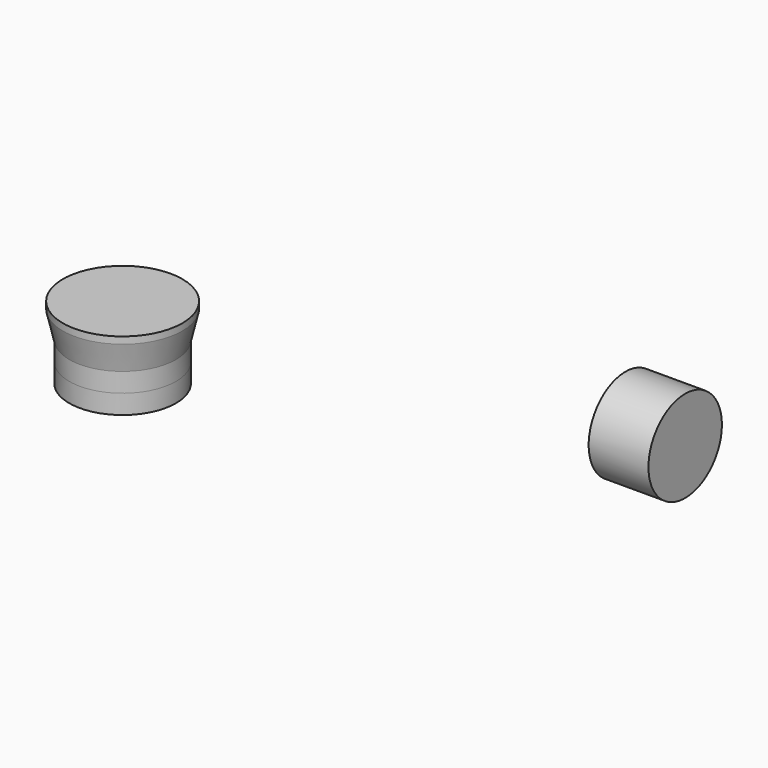
from build123d import *

# Parameters (mm, degrees)
F2_R          = 19.8501
F3_DEPTH      = 7.1374
F3_DEPTH_BACK = 7.1374
F5_R          = 22.225
F6_DEPTH      = 2.54
F3_FACE_R     = 19.8501
F6_FACE_R     = 22.225
F8_R          = 17.0815
F9_DEPTH      = 11.1125
F9_DEPTH_BACK = 11.1125


with BuildPart() as f3:
    # F2 (on offset) → F3 (new body, two sides)
    with BuildSketch(Plane.XY.offset(61.1124)) as f3_sk:
        with Locations((-76.2, 0)):
            Circle(F2_R)
    extrude(amount=-F3_DEPTH)
    extrude(f3_sk.sketch, amount=F3_DEPTH_BACK)



with BuildPart() as f6:
    # F5 (on offset) → F6 (new body)
    with BuildSketch(Plane.XY.offset(80.9498)):
        with Locations((-76.2, 0)):
            Circle(F5_R)
    extrude(amount=-F6_DEPTH)


with BuildPart() as f3_1:
    add(f3.part)

    add(f6.part)  # F7 merges F6
    # F3_face (on face) → F7 section 0
    with BuildSketch(Plane(origin=(-76.2, 0, 68.2498), x_dir=(1, 0, 0), z_dir=(0, 0, 1))):
        Circle(F3_FACE_R)
    # F6_face (on face) → F7 section 1
    with BuildSketch(Plane(origin=(-76.2, 0, 78.4098), x_dir=(1, 0, 0), z_dir=(0, 0, -1))):
        Circle(F6_FACE_R)
    loft()


with BuildPart() as f9:
    # F8 (on Right) → F9 (new body, two sides)
    with BuildSketch(Plane.YZ) as f9_sk:
        with Locations((152.4, 0)):
            Circle(F8_R)
    extrude(amount=F9_DEPTH)
    extrude(f9_sk.sketch, amount=-F9_DEPTH_BACK)


solid = Compound([f3_1.part, f9.part])
